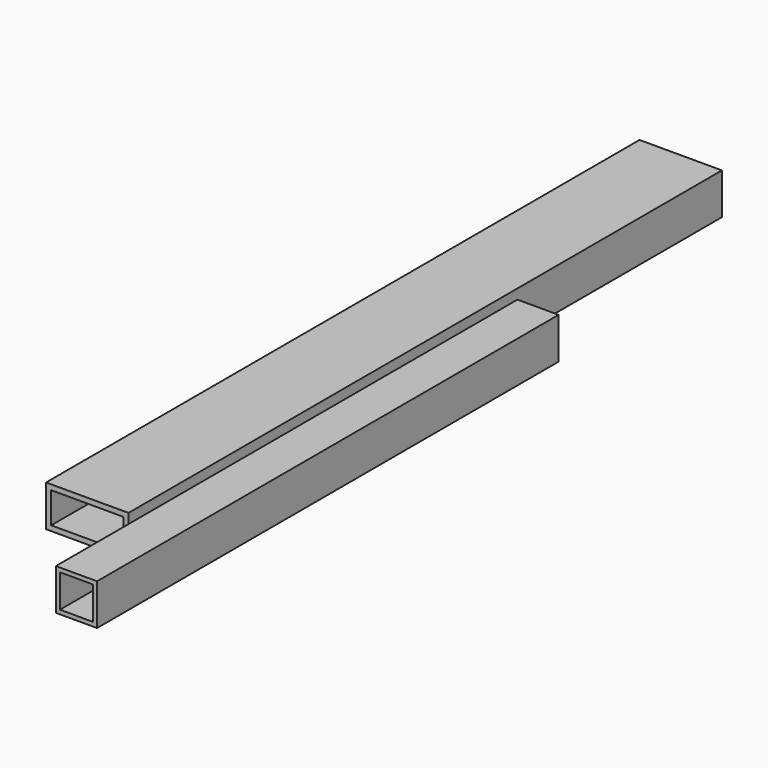
from build123d import *

# Parameters (mm, degrees)
F0_W     = 50.8
F0_H     = 457.2
F1_DEPTH = 12.7
F2_T     = -3.175
F3_W     = 25.4
F3_H     = 355.6
F4_DEPTH = 25.4
F5_T     = -2.54


with BuildPart() as f1:
    # F0 (on Top) → F1 (new body, symmetric)
    with BuildSketch(Plane.XY):
        with Locations((-45.076435, 150.832766)):
            Rectangle(F0_W, F0_H)
    extrude(amount=F1_DEPTH, both=True)

    # F2
    f2_openings = [f1.faces().sort_by_distance(p)[0] for p in [
        (-45.076435, 379.432766, 0),
        (-45.076435, -77.767234, 0),
    ]]
    offset(amount=F2_T, openings=f2_openings)


with BuildPart() as f4:
    # F3 (on Top) → F4 (new body)
    with BuildSketch(Plane.XY):
        with Locations((15.568008, 15.888512)):
            Rectangle(F3_W, F3_H)
    extrude(amount=F4_DEPTH)

    # F5
    f5_openings = [f4.faces().sort_by_distance(p)[0] for p in [
        (15.568008, 193.688512, 12.7),
        (15.568008, -161.911488, 12.7),
    ]]
    offset(amount=F5_T, openings=f5_openings)


solid = Compound([f1.part, f4.part])
